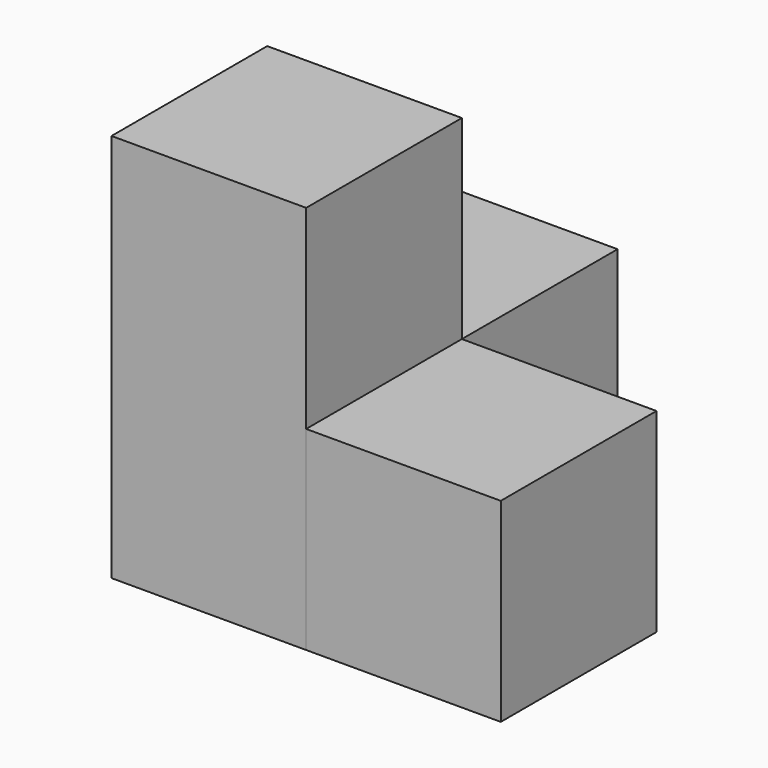
from build123d import *

# Parameters (mm, degrees)
BOX_W        = 10
BOX_H        = 10
BOX_DEPTH    = 20
BOX001_W     = 10
BOX001_H     = 10
BOX001_DEPTH = 10
BOX002_W     = 10
BOX002_H     = 10
BOX002_DEPTH = 10


with BuildPart() as box:
    # Box → Box (new body)
    with BuildSketch(Plane.XY):
        with Locations((5, 5)):
            Rectangle(BOX_W, BOX_H)
    extrude(amount=BOX_DEPTH)


with BuildPart() as box001:
    # Box001 → Box001 (new body)
    with BuildSketch(Plane(origin=(10, 0, 0), x_dir=(1, 0, 0), z_dir=(0, 0, 1))):
        with Locations((5, 5)):
            Rectangle(BOX001_W, BOX001_H)
    extrude(amount=BOX001_DEPTH)


with BuildPart() as box002:
    # Box002 → Box002 (new body)
    with BuildSketch(Plane(origin=(0, 10, 0), x_dir=(1, 0, 0), z_dir=(0, 0, 1))):
        with Locations((5, 5)):
            Rectangle(BOX002_W, BOX002_H)
    extrude(amount=BOX002_DEPTH)


solid = Compound([box.part, box001.part, box002.part])
